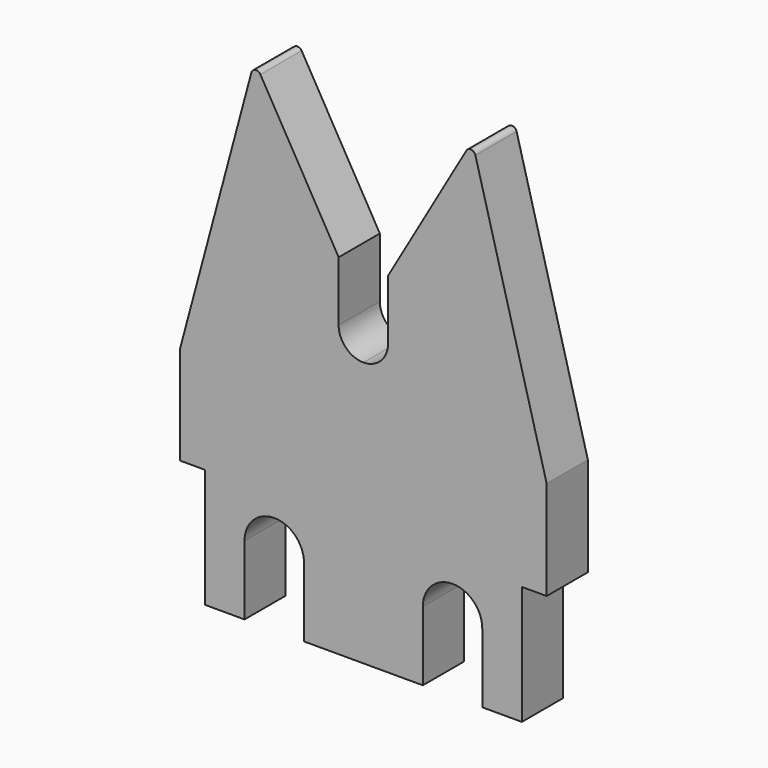
from build123d import *

# Parameters (mm, degrees)
F1_DEPTH = 5.2
F2_R     = 0.5


with BuildPart() as f1:
    # F0 (on Front) → F1 (new body)
    with BuildSketch(Plane.XZ):
        with BuildLine():
            Line((-35.080979, 16.955321), (-35.080979, 4.955321))
            Line((-35.080979, 4.955321), (-31.080979, 4.955321))
            Line((-31.080979, 4.955321), (-31.080979, 11.955321))
            ThreePointArc((-31.080979, 11.955321), (-28.080979, 14.955321), (-25.080979, 11.955321))
            Line((-25.080979, 11.955321), (-25.080979, 4.955321))
            Line((-25.080979, 4.955321), (-19.080979, 4.955321))
            Line((-19.080979, 4.955321), (-19.080979, 31.69859))
            ThreePointArc((-19.080979, 31.69859), (-20.848746, 32.430823), (-21.580979, 34.19859))
            Line((-21.580979, 34.19859), (-21.580979, 40.237353))
            Line((-21.580979, 40.237353), (-30.078402, 54.955321))
            Line((-30.078402, 54.955321), (-37.580979, 26.955321))
            Line((-37.580979, 26.955321), (-37.580979, 16.955321))
            Line((-37.580979, 16.955321), (-35.080979, 16.955321))
        make_face()
        with BuildLine():
            Line((-19.080979, 31.69859), (-19.080979, 4.955321))
            Line((-19.080979, 4.955321), (-13.080979, 4.955321))
            Line((-13.080979, 4.955321), (-13.080979, 11.955321))
            ThreePointArc((-13.080979, 11.955321), (-10.080979, 14.955321), (-7.080979, 11.955321))
            Line((-7.080979, 11.955321), (-7.080979, 4.955321))
            Line((-7.080979, 4.955321), (-3.080979, 4.955321))
            Line((-3.080979, 4.955321), (-3.080979, 16.955321))
            Line((-3.080979, 16.955321), (-0.580979, 16.955321))
            Line((-0.580979, 16.955321), (-0.580979, 26.955321))
            Line((-0.580979, 26.955321), (-8.083557, 54.955321))
            Line((-8.083557, 54.955321), (-16.580979, 40.237353))
            Line((-16.580979, 40.237353), (-16.580979, 34.19859))
            ThreePointArc((-16.580979, 34.19859), (-17.313212, 32.430823), (-19.080979, 31.69859))
        make_face()
    extrude(amount=F1_DEPTH)

    # F2
    f2_edges = [f1.edges().sort_by_distance(p)[0] for p in [
        (-30.078402, -2.6, 54.955321),
        (-8.083557, -2.6, 54.955321),
    ]]
    fillet(f2_edges, radius=F2_R)


solid = f1.part
